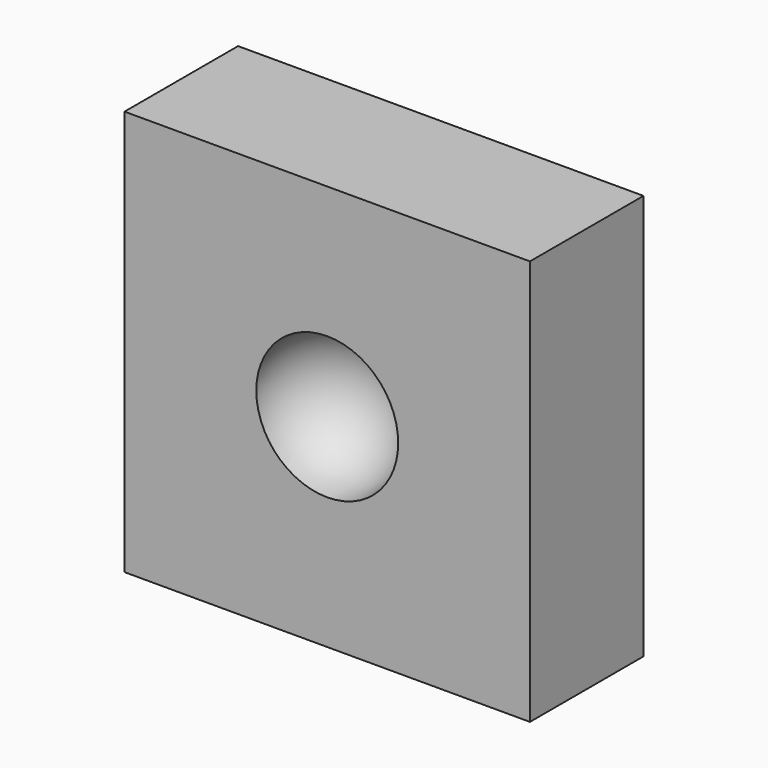
from build123d import *

# Parameters (mm, degrees)
F0_W     = 25.4
F0_H     = 25.4
F1_DEPTH = 8.89


with BuildPart() as f1:
    # F0 (on Front) → F1 (new body)
    with BuildSketch(Plane.XZ):
        Rectangle(F0_W, F0_H)
    extrude(amount=F1_DEPTH)

    # F2 (on face) → F3 (revolve, cut)
    with BuildSketch(Plane.XZ.offset(8.89)):
        with BuildLine():
            Line((4.445, 0), (-4.445, 0))
            ThreePointArc((-4.445, 0), (0, -4.445), (4.445, 0))
        make_face()
    revolve(axis=Axis((0, -8.89, 0), (1, 0, 0)), mode=Mode.SUBTRACT)


solid = f1.part
